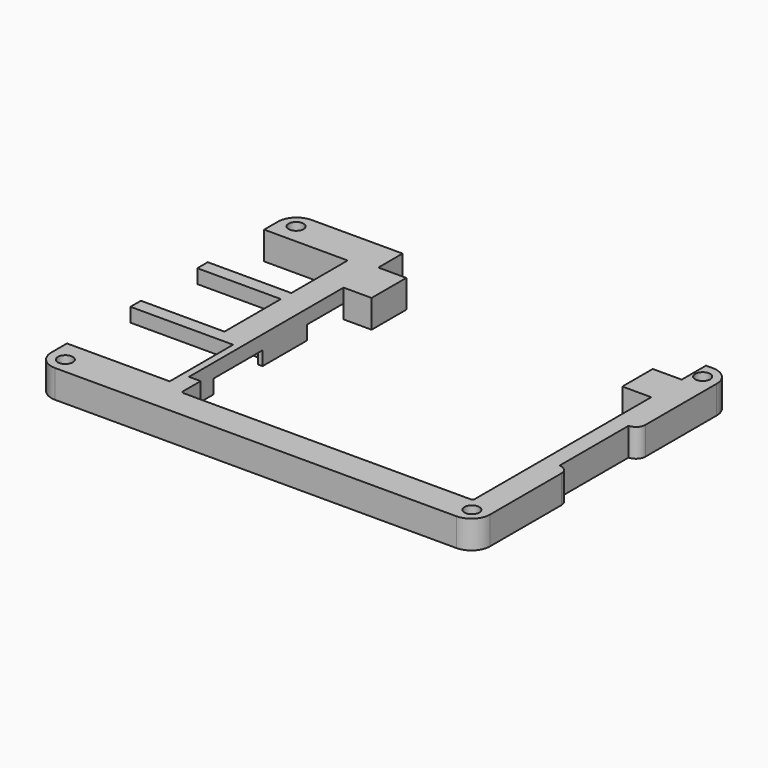
from build123d import *

# Parameters (mm, degrees)
SKETCH_W        = 94
SKETCH_H        = 68.7
SKETCH_R        = 1.6
PAD_DEPTH       = 6
SKETCH001_W     = 22
SKETCH001_H     = 17
SKETCH001_W_2   = 17.9
SKETCH001_H_2   = 15.1
POCKET_DEPTH    = 6
POCKET001_DEPTH = 3
FILLET_R        = 4


with BuildPart() as part:
    # Sketch → Pad (new body)
    with BuildSketch(Plane.XY):
        with Locations((47, 34.35)):
            Rectangle(SKETCH_W, SKETCH_H)
        with Locations((3.45, 65.25)):
            Circle(SKETCH_R, mode=Mode.SUBTRACT)
        with Locations((90.55, 65.25)):
            Circle(SKETCH_R, mode=Mode.SUBTRACT)
        with Locations((90.55, 3.45)):
            Circle(SKETCH_R, mode=Mode.SUBTRACT)
        with Locations((3.45, 3.45)):
            Circle(SKETCH_R, mode=Mode.SUBTRACT)
    extrude(amount=PAD_DEPTH)

    # Sketch001 (on Face10 of Pad) → Pocket (cut)
    with BuildSketch(Plane.XY.offset(6)):
        with Locations((11, 16.7)):
            Rectangle(SKETCH001_W, SKETCH001_H)
        with Locations((8.95, 35.55)):
            Rectangle(SKETCH001_W_2, SKETCH001_H_2)
        with Locations((8.95, 53.45)):
            Rectangle(SKETCH001_W_2, SKETCH001_H_2)
        with BuildLine():
            Line((92, 43.6), (92, 25.1))
            ThreePointArc((94, 23.1), (93.414214, 24.514214), (92, 25.1))
            Line((94, 23.1), (94, 45.6))
            ThreePointArc((92, 43.6), (93.414214, 44.185786), (94, 45.6))
        make_face()
        with BuildLine():
            Line((88.5, 68.7), (88.5, 62.2))
            Line((88.5, 62.2), (82.3, 62.2))
            Line((82.3, 62.2), (82.3, 54.05))
            Line((82.3, 54.05), (88.5, 54.05))
            Line((88.5, 54.05), (88.5, 6.8))
            ThreePointArc((88, 6.3), (88.353553, 6.446447), (88.5, 6.8))
            Line((88, 6.3), (26.5, 6.3))
            ThreePointArc((26, 6.8), (26.146447, 6.446447), (26.5, 6.3))
            Line((26, 6.8), (26, 11.5))
            Line((26, 11.5), (23.5, 11.5))
            Line((23.5, 11.5), (23.5, 52.9))
            Line((23.5, 52.9), (29.5, 52.9))
            Line((29.5, 52.9), (29.5, 62.2))
            Line((29.5, 62.2), (23.5, 62.2))
            Line((23.5, 62.2), (23.5, 68.7))
            Line((23.5, 68.7), (88.5, 68.7))
        make_face()
    extrude(amount=-POCKET_DEPTH, mode=Mode.SUBTRACT)

    # Sketch002 (on Face4 of Pocket) → Pocket001 (cut)
    with BuildSketch(Plane(origin=(0, 0, 0), x_dir=(1, 0, 0), z_dir=(0, 0, -1))):
        Polygon((22, -18.1), (23.5, -18.1), (23.5, -31.2), (22.5, -31.2), (22.5, -33.2), (17.9, -33.2), (17.9, -28), (0, -28), (0, -25.2), (22, -25.2), align=None)
        Polygon((0, -43.1), (23.5, -43.1), (23.5, -58.2), (20.9, -58.2), (20.9, -61), (17.9, -61), (17.9, -45.9), (0, -45.9), align=None)
    extrude(amount=-POCKET001_DEPTH, mode=Mode.SUBTRACT)

    # Fillet
    fillet_edges = [part.edges().sort_by_distance(p)[0] for p in [
        (0, 68.7, 3),
        (0, 0, 3),
        (94, 0, 3),
        (94, 68.7, 3),
    ]]
    fillet(fillet_edges, radius=FILLET_R)


solid = part.part
